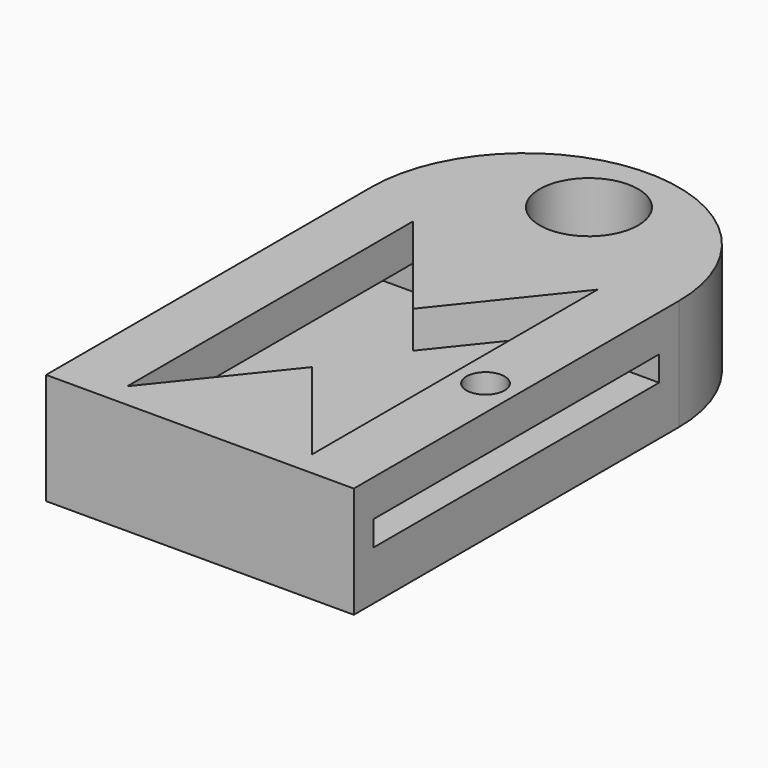
from build123d import *

# Parameters (mm, degrees)
F1_DEPTH  = 9.03
F2_W      = 29
F2_H      = 2.03
F3_DEPTH  = 25.001
F4_W      = 15
F4_H      = 29
F5_DEPTH  = 3
F7_DEPTH  = 3
F8_R      = 1.55
F9_DEPTH  = 3
F10_R     = 4
F11_DEPTH = 9.031


with BuildPart() as f1:
    # F0 (on Top) → F1 (new body)
    with BuildSketch(Plane.XY):
        with BuildLine():
            ThreePointArc((15.4117660597, 18.6968654121), (2.9117660597, 31.1968654121), (-9.5882339403, 18.6968654121))
            Line((-9.5882339403, 18.6968654121), (15.4117660597, 18.6968654121))
        make_face()
        with BuildLine():
            Line((15.4117660597, 18.6968654121), (-9.5882339403, 18.6968654121))
            ThreePointArc((-9.5882339403, 18.6968654121), (2.9117660597, 6.1968654121), (15.4117660597, 18.6968654121))
        make_face()
        with BuildLine():
            ThreePointArc((15.4117660597, 18.6968654121), (2.9117660597, 6.1968654121), (-9.5882339403, 18.6968654121))
            Line((-9.5882339403, 18.6968654121), (-9.5882339403, -14.3031345879))
            Line((-9.5882339403, -14.3031345879), (15.4117660597, -14.3031345879))
            Line((15.4117660597, -14.3031345879), (15.4117660597, 18.6968654121))
        make_face()
    extrude(amount=F1_DEPTH)

    # F2 (on face) → F3 (cut, through all)
    with BuildSketch(Plane(origin=(-9.5882339403, 0, 0), x_dir=(0, -1, 0), z_dir=(-1, 0, 0))):
        with Locations((-2.1968654121, 5.015)):
            Rectangle(F2_W, F2_H)
    extrude(amount=-F3_DEPTH, mode=Mode.SUBTRACT)

    # F4 (on face) → F5 (cut, through all)
    with BuildSketch(Plane.XY.offset(9.03)):
        with Locations((2.9117660597, 2.1968654121)):
            Rectangle(F4_W, F4_H)
    extrude(amount=-F5_DEPTH, mode=Mode.SUBTRACT)

    # F6 (on face) → F7 (join)
    with BuildSketch(Plane.XY.offset(9.03)):
        Polygon((2.9117660597, -2.9356375903), (-4.5882339403, -12.3031345879), (10.4117660597, -12.3031345879), align=None)
        Polygon((10.4117660597, 16.6968654121), (-4.5882339403, 16.6968654121), (2.9117660597, 7.3293684145), align=None)
    extrude(amount=-F7_DEPTH)

    # F8 (on face) → F9 (cut, through all)
    with BuildSketch(Plane.XY.offset(9.03)):
        with Locations((12.9117660597, 2.1968654121)):
            Circle(F8_R)
    extrude(amount=-F9_DEPTH, mode=Mode.SUBTRACT)

    # F10 (on face) → F11 (cut, through all)
    with BuildSketch(Plane.XY.offset(9.03)):
        with Locations((2.9117660597, 25.1968654121)):
            Circle(F10_R)
    extrude(amount=-F11_DEPTH, mode=Mode.SUBTRACT)


solid = f1.part
